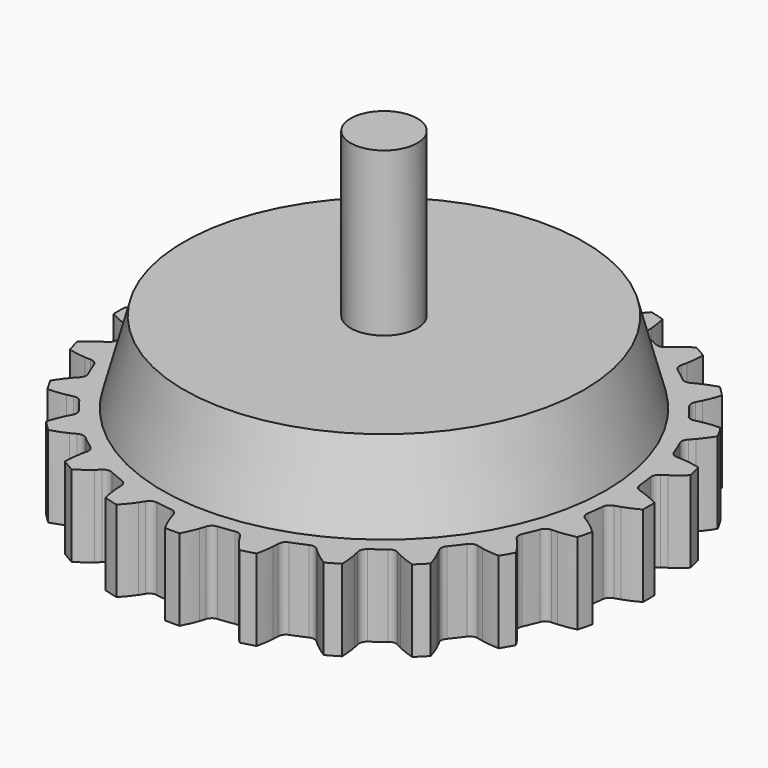
from build123d import *

# Parameters (mm, degrees)
PAD013_DEPTH    = 10
SKETCH016_R     = 27.25
POCKET006_DEPTH = 10
SKETCH018_R     = 4.1
PAD014_DEPTH    = 20


with BuildPart() as part:
    # InvoluteGear003 → Pad013 (new body)
    with BuildSketch(Plane.XY):
        with BuildLine():
            add(Edge.make_bspline(
                [(29.81913, -1.995336), (30.031282, -1.936255), (30.261506, -1.864534), (30.508596, -1.777631)],
                knots=[0, 0, 0, 0, 1, 1, 1, 1], degree=3))
            add(Edge.make_bspline(
                [(30.508596, -1.777631), (31.084344, -1.575098), (31.750217, -1.290846), (32.487919, -0.894202)],
                knots=[0, 0, 0, 0, 1, 1, 1, 1], degree=3))
            ThreePointArc((32.487919, -0.894202), (32.500111, 6.3e-05), (32.487693, 0.894325))
            add(Edge.make_bspline(
                [(32.487693, 0.894325), (31.750217, 1.290846), (31.084344, 1.575098), (30.508596, 1.777631)],
                knots=[0, 0, 0, 0, 1, 1, 1, 1], degree=3))
            add(Edge.make_bspline(
                [(30.508596, 1.777631), (30.261506, 1.864534), (30.031282, 1.936255), (29.819138, 1.995332)],
                knots=[0, 0, 0, 0, 1, 1, 1, 1], degree=3))
            ThreePointArc((29.819138, 1.995332), (29.334777, 2.299755), (29.113053, 2.827124))
            ThreePointArc((29.113053, 2.827124), (28.999762, 3.817891), (28.852764, 4.804221))
            ThreePointArc((28.852764, 4.804221), (28.930438, 5.371001), (29.319499, 5.790412))
            add(Edge.make_bspline(
                [(29.319499, 5.790412), (29.509131, 5.902389), (29.712947, 6.031252), (29.929125, 6.179146)],
                knots=[0, 0, 0, 0, 1, 1, 1, 1], degree=3))
            add(Edge.make_bspline(
                [(29.929125, 6.179146), (30.432836, 6.523792), (31.00245, 6.9707), (31.612356, 7.544759)],
                knots=[0, 0, 0, 0, 1, 1, 1, 1], degree=3))
            ThreePointArc((31.612356, 7.544759), (31.392681, 8.411709), (31.149233, 9.272285))
            add(Edge.make_bspline(
                [(31.149233, 9.272285), (30.334259, 9.464422), (29.617505, 9.566648), (29.008956, 9.613266)],
                knots=[0, 0, 0, 0, 1, 1, 1, 1], degree=3))
            add(Edge.make_bspline(
                [(29.008956, 9.613266), (28.747793, 9.633256), (28.506852, 9.642946), (28.286645, 9.645104)],
                knots=[0, 0, 0, 0, 1, 1, 1, 1], degree=3))
            ThreePointArc((28.286645, 9.645104), (27.739998, 9.813792), (27.389337, 10.265805))
            ThreePointArc((27.389337, 10.265805), (27.023476, 11.19349), (26.626206, 12.108166))
            ThreePointArc((26.626206, 12.108166), (26.55454, 12.675737), (26.821792, 13.181553))
            add(Edge.make_bspline(
                [(26.821792, 13.181553), (26.975981, 13.338795), (27.1395, 13.516019), (27.310035, 13.714824)],
                knots=[0, 0, 0, 0, 1, 1, 1, 1], degree=3))
            add(Edge.make_bspline(
                [(27.310035, 13.714824), (27.70738, 14.178097), (28.141917, 14.757203), (28.582464, 15.469557)],
                knots=[0, 0, 0, 0, 1, 1, 1, 1], degree=3))
            ThreePointArc((28.582464, 15.469557), (28.145891, 16.25011), (27.688005, 17.018355))
            add(Edge.make_bspline(
                [(27.688005, 17.018355), (26.851071, 16.993013), (26.132282, 16.906246), (25.532403, 16.793772)],
                knots=[0, 0, 0, 0, 1, 1, 1, 1], degree=3))
            add(Edge.make_bspline(
                [(25.532403, 16.793772), (25.274966, 16.745487), (25.039726, 16.692487), (24.826465, 16.637578)],
                knots=[0, 0, 0, 0, 1, 1, 1, 1], degree=3))
            ThreePointArc((24.826465, 16.637578), (24.254784, 16.659035), (23.799082, 17.004888))
            ThreePointArc((23.799082, 17.004888), (23.205585, 17.806272), (22.585116, 18.586959))
            ThreePointArc((22.585116, 18.586959), (22.368993, 19.116643), (22.496224, 19.674393))
            add(Edge.make_bspline(
                [(22.496224, 19.674393), (22.604462, 19.866185), (22.716541, 20.079691), (22.82981, 20.31586)],
                knots=[0, 0, 0, 0, 1, 1, 1, 1], degree=3))
            add(Edge.make_bspline(
                [(22.82981, 20.31586), (23.093712, 20.866188), (23.363559, 21.538028), (23.604724, 22.340131)],
                knots=[0, 0, 0, 0, 1, 1, 1, 1], degree=3))
            ThreePointArc((23.604724, 22.340131), (22.981005, 22.981094), (22.339885, 23.604651))
            add(Edge.make_bspline(
                [(22.339885, 23.604651), (21.538028, 23.363559), (20.866188, 23.093712), (20.31586, 22.82981)],
                knots=[0, 0, 0, 0, 1, 1, 1, 1], degree=3))
            add(Edge.make_bspline(
                [(20.31586, 22.82981), (20.079691, 22.716541), (19.866185, 22.604462), (19.674402, 22.496228)],
                knots=[0, 0, 0, 0, 1, 1, 1, 1], degree=3))
            ThreePointArc((19.674402, 22.496228), (19.116647, 22.368992), (18.586959, 22.585116))
            ThreePointArc((18.586959, 22.585116), (17.806272, 23.205585), (17.004888, 23.799082))
            ThreePointArc((17.004888, 23.799082), (16.659037, 24.25478), (16.637576, 24.826456))
            add(Edge.make_bspline(
                [(16.637576, 24.826456), (16.692487, 25.039726), (16.745487, 25.274966), (16.793772, 25.532403)],
                knots=[0, 0, 0, 0, 1, 1, 1, 1], degree=3))
            add(Edge.make_bspline(
                [(16.793772, 25.532403), (16.906246, 26.132282), (16.993013, 26.851071), (17.018361, 27.688262)],
                knots=[0, 0, 0, 0, 1, 1, 1, 1], degree=3))
            ThreePointArc((17.018361, 27.688262), (16.250001, 28.145953), (15.469338, 28.58233))
            add(Edge.make_bspline(
                [(15.469338, 28.58233), (14.757203, 28.141917), (14.178097, 27.70738), (13.714824, 27.310035)],
                knots=[0, 0, 0, 0, 1, 1, 1, 1], degree=3))
            add(Edge.make_bspline(
                [(13.714824, 27.310035), (13.516019, 27.1395), (13.338795, 26.975981), (13.18156, 26.821797)],
                knots=[0, 0, 0, 0, 1, 1, 1, 1], degree=3))
            ThreePointArc((13.18156, 26.821797), (12.675742, 26.55454), (12.108166, 26.626206))
            ThreePointArc((12.108166, 26.626206), (11.19349, 27.023476), (10.265805, 27.389337))
            ThreePointArc((10.265805, 27.389337), (9.813795, 27.739995), (9.645105, 28.286637))
            add(Edge.make_bspline(
                [(9.645105, 28.286637), (9.642946, 28.506852), (9.633256, 28.747793), (9.613266, 29.008956)],
                knots=[0, 0, 0, 0, 1, 1, 1, 1], degree=3))
            add(Edge.make_bspline(
                [(9.613266, 29.008956), (9.566648, 29.617505), (9.464422, 30.334259), (9.272225, 31.149483)],
                knots=[0, 0, 0, 0, 1, 1, 1, 1], degree=3))
            ThreePointArc((9.272225, 31.149483), (8.411587, 31.392713), (7.544582, 31.61217))
            add(Edge.make_bspline(
                [(7.544582, 31.61217), (6.9707, 31.00245), (6.523792, 30.432836), (6.179146, 29.929125)],
                knots=[0, 0, 0, 0, 1, 1, 1, 1], degree=3))
            add(Edge.make_bspline(
                [(6.179146, 29.929125), (6.031252, 29.712947), (5.902389, 29.509131), (5.790418, 29.319506)],
                knots=[0, 0, 0, 0, 1, 1, 1, 1], degree=3))
            ThreePointArc((5.790418, 29.319506), (5.371006, 28.930439), (4.804221, 28.852764))
            ThreePointArc((4.804221, 28.852764), (3.817891, 28.999762), (2.827124, 29.113053))
            ThreePointArc((2.827124, 29.113053), (2.299759, 29.334775), (1.995336, 29.81913))
            add(Edge.make_bspline(
                [(1.995336, 29.81913), (1.936255, 30.031282), (1.864534, 30.261506), (1.777631, 30.508596)],
                knots=[0, 0, 0, 0, 1, 1, 1, 1], degree=3))
            add(Edge.make_bspline(
                [(1.777631, 30.508596), (1.575098, 31.084344), (1.290846, 31.750217), (0.894202, 32.487919)],
                knots=[0, 0, 0, 0, 1, 1, 1, 1], degree=3))
            ThreePointArc((0.894202, 32.487919), (-6.3e-05, 32.500111), (-0.894325, 32.487693))
            add(Edge.make_bspline(
                [(-0.894325, 32.487693), (-1.290846, 31.750217), (-1.575098, 31.084344), (-1.777631, 30.508596)],
                knots=[0, 0, 0, 0, 1, 1, 1, 1], degree=3))
            add(Edge.make_bspline(
                [(-1.777631, 30.508596), (-1.864534, 30.261506), (-1.936255, 30.031282), (-1.995332, 29.819138)],
                knots=[0, 0, 0, 0, 1, 1, 1, 1], degree=3))
            ThreePointArc((-1.995332, 29.819138), (-2.299755, 29.334777), (-2.827124, 29.113053))
            ThreePointArc((-2.827124, 29.113053), (-3.817891, 28.999762), (-4.804221, 28.852764))
            ThreePointArc((-4.804221, 28.852764), (-5.371001, 28.930438), (-5.790412, 29.319499))
            add(Edge.make_bspline(
                [(-5.790412, 29.319499), (-5.902389, 29.509131), (-6.031252, 29.712947), (-6.179146, 29.929125)],
                knots=[0, 0, 0, 0, 1, 1, 1, 1], degree=3))
            add(Edge.make_bspline(
                [(-6.179146, 29.929125), (-6.523792, 30.432836), (-6.9707, 31.00245), (-7.544759, 31.612356)],
                knots=[0, 0, 0, 0, 1, 1, 1, 1], degree=3))
            ThreePointArc((-7.544759, 31.612356), (-8.411709, 31.392681), (-9.272285, 31.149233))
            add(Edge.make_bspline(
                [(-9.272285, 31.149233), (-9.464422, 30.334259), (-9.566648, 29.617505), (-9.613266, 29.008956)],
                knots=[0, 0, 0, 0, 1, 1, 1, 1], degree=3))
            add(Edge.make_bspline(
                [(-9.613266, 29.008956), (-9.633256, 28.747793), (-9.642946, 28.506852), (-9.645104, 28.286645)],
                knots=[0, 0, 0, 0, 1, 1, 1, 1], degree=3))
            ThreePointArc((-9.645104, 28.286645), (-9.813792, 27.739998), (-10.265805, 27.389337))
            ThreePointArc((-10.265805, 27.389337), (-11.19349, 27.023476), (-12.108166, 26.626206))
            ThreePointArc((-12.108166, 26.626206), (-12.675737, 26.55454), (-13.181553, 26.821792))
            add(Edge.make_bspline(
                [(-13.181553, 26.821792), (-13.338795, 26.975981), (-13.516019, 27.1395), (-13.714824, 27.310035)],
                knots=[0, 0, 0, 0, 1, 1, 1, 1], degree=3))
            add(Edge.make_bspline(
                [(-13.714824, 27.310035), (-14.178097, 27.70738), (-14.757203, 28.141917), (-15.469557, 28.582464)],
                knots=[0, 0, 0, 0, 1, 1, 1, 1], degree=3))
            ThreePointArc((-15.469557, 28.582464), (-16.25011, 28.145891), (-17.018355, 27.688005))
            add(Edge.make_bspline(
                [(-17.018355, 27.688005), (-16.993013, 26.851071), (-16.906246, 26.132282), (-16.793772, 25.532403)],
                knots=[0, 0, 0, 0, 1, 1, 1, 1], degree=3))
            add(Edge.make_bspline(
                [(-16.793772, 25.532403), (-16.745487, 25.274966), (-16.692487, 25.039726), (-16.637578, 24.826465)],
                knots=[0, 0, 0, 0, 1, 1, 1, 1], degree=3))
            ThreePointArc((-16.637578, 24.826465), (-16.659035, 24.254784), (-17.004888, 23.799082))
            ThreePointArc((-17.004888, 23.799082), (-17.806272, 23.205585), (-18.586959, 22.585116))
            ThreePointArc((-18.586959, 22.585116), (-19.116643, 22.368993), (-19.674393, 22.496224))
            add(Edge.make_bspline(
                [(-19.674393, 22.496224), (-19.866185, 22.604462), (-20.079691, 22.716541), (-20.31586, 22.82981)],
                knots=[0, 0, 0, 0, 1, 1, 1, 1], degree=3))
            add(Edge.make_bspline(
                [(-20.31586, 22.82981), (-20.866188, 23.093712), (-21.538028, 23.363559), (-22.340131, 23.604724)],
                knots=[0, 0, 0, 0, 1, 1, 1, 1], degree=3))
            ThreePointArc((-22.340131, 23.604724), (-22.981094, 22.981005), (-23.604651, 22.339885))
            add(Edge.make_bspline(
                [(-23.604651, 22.339885), (-23.363559, 21.538028), (-23.093712, 20.866188), (-22.82981, 20.31586)],
                knots=[0, 0, 0, 0, 1, 1, 1, 1], degree=3))
            add(Edge.make_bspline(
                [(-22.82981, 20.31586), (-22.716541, 20.079691), (-22.604462, 19.866185), (-22.496228, 19.674402)],
                knots=[0, 0, 0, 0, 1, 1, 1, 1], degree=3))
            ThreePointArc((-22.496228, 19.674402), (-22.368992, 19.116647), (-22.585116, 18.586959))
            ThreePointArc((-22.585116, 18.586959), (-23.205585, 17.806272), (-23.799082, 17.004888))
            ThreePointArc((-23.799082, 17.004888), (-24.25478, 16.659037), (-24.826456, 16.637576))
            add(Edge.make_bspline(
                [(-24.826456, 16.637576), (-25.039726, 16.692487), (-25.274966, 16.745487), (-25.532403, 16.793772)],
                knots=[0, 0, 0, 0, 1, 1, 1, 1], degree=3))
            add(Edge.make_bspline(
                [(-25.532403, 16.793772), (-26.132282, 16.906246), (-26.851071, 16.993013), (-27.688262, 17.018361)],
                knots=[0, 0, 0, 0, 1, 1, 1, 1], degree=3))
            ThreePointArc((-27.688262, 17.018361), (-28.145953, 16.250001), (-28.58233, 15.469338))
            add(Edge.make_bspline(
                [(-28.58233, 15.469338), (-28.141917, 14.757203), (-27.70738, 14.178097), (-27.310035, 13.714824)],
                knots=[0, 0, 0, 0, 1, 1, 1, 1], degree=3))
            add(Edge.make_bspline(
                [(-27.310035, 13.714824), (-27.1395, 13.516019), (-26.975981, 13.338795), (-26.821797, 13.18156)],
                knots=[0, 0, 0, 0, 1, 1, 1, 1], degree=3))
            ThreePointArc((-26.821797, 13.18156), (-26.55454, 12.675742), (-26.626206, 12.108166))
            ThreePointArc((-26.626206, 12.108166), (-27.023476, 11.19349), (-27.389337, 10.265805))
            ThreePointArc((-27.389337, 10.265805), (-27.739995, 9.813795), (-28.286637, 9.645105))
            add(Edge.make_bspline(
                [(-28.286637, 9.645105), (-28.506852, 9.642946), (-28.747793, 9.633256), (-29.008956, 9.613266)],
                knots=[0, 0, 0, 0, 1, 1, 1, 1], degree=3))
            add(Edge.make_bspline(
                [(-29.008956, 9.613266), (-29.617505, 9.566648), (-30.334259, 9.464422), (-31.149483, 9.272225)],
                knots=[0, 0, 0, 0, 1, 1, 1, 1], degree=3))
            ThreePointArc((-31.149483, 9.272225), (-31.392713, 8.411587), (-31.61217, 7.544582))
            add(Edge.make_bspline(
                [(-31.61217, 7.544582), (-31.00245, 6.9707), (-30.432836, 6.523792), (-29.929125, 6.179146)],
                knots=[0, 0, 0, 0, 1, 1, 1, 1], degree=3))
            add(Edge.make_bspline(
                [(-29.929125, 6.179146), (-29.712947, 6.031252), (-29.509131, 5.902389), (-29.319506, 5.790418)],
                knots=[0, 0, 0, 0, 1, 1, 1, 1], degree=3))
            ThreePointArc((-29.319506, 5.790418), (-28.930439, 5.371006), (-28.852764, 4.804221))
            ThreePointArc((-28.852764, 4.804221), (-28.999762, 3.817891), (-29.113053, 2.827124))
            ThreePointArc((-29.113053, 2.827124), (-29.334775, 2.299759), (-29.81913, 1.995336))
            add(Edge.make_bspline(
                [(-29.81913, 1.995336), (-30.031282, 1.936255), (-30.261506, 1.864534), (-30.508596, 1.777631)],
                knots=[0, 0, 0, 0, 1, 1, 1, 1], degree=3))
            add(Edge.make_bspline(
                [(-30.508596, 1.777631), (-31.084344, 1.575098), (-31.750217, 1.290846), (-32.487919, 0.894202)],
                knots=[0, 0, 0, 0, 1, 1, 1, 1], degree=3))
            ThreePointArc((-32.487919, 0.894202), (-32.500111, -6.3e-05), (-32.487693, -0.894325))
            add(Edge.make_bspline(
                [(-32.487693, -0.894325), (-31.750217, -1.290846), (-31.084344, -1.575098), (-30.508596, -1.777631)],
                knots=[0, 0, 0, 0, 1, 1, 1, 1], degree=3))
            add(Edge.make_bspline(
                [(-30.508596, -1.777631), (-30.261506, -1.864534), (-30.031282, -1.936255), (-29.819138, -1.995332)],
                knots=[0, 0, 0, 0, 1, 1, 1, 1], degree=3))
            ThreePointArc((-29.819138, -1.995332), (-29.334777, -2.299755), (-29.113053, -2.827124))
            ThreePointArc((-29.113053, -2.827124), (-28.999762, -3.817891), (-28.852764, -4.804221))
            ThreePointArc((-28.852764, -4.804221), (-28.930438, -5.371001), (-29.319499, -5.790412))
            add(Edge.make_bspline(
                [(-29.319499, -5.790412), (-29.509131, -5.902389), (-29.712947, -6.031252), (-29.929125, -6.179146)],
                knots=[0, 0, 0, 0, 1, 1, 1, 1], degree=3))
            add(Edge.make_bspline(
                [(-29.929125, -6.179146), (-30.432836, -6.523792), (-31.00245, -6.9707), (-31.612356, -7.544759)],
                knots=[0, 0, 0, 0, 1, 1, 1, 1], degree=3))
            ThreePointArc((-31.612356, -7.544759), (-31.392681, -8.411709), (-31.149233, -9.272285))
            add(Edge.make_bspline(
                [(-31.149233, -9.272285), (-30.334259, -9.464422), (-29.617505, -9.566648), (-29.008956, -9.613266)],
                knots=[0, 0, 0, 0, 1, 1, 1, 1], degree=3))
            add(Edge.make_bspline(
                [(-29.008956, -9.613266), (-28.747793, -9.633256), (-28.506852, -9.642946), (-28.286645, -9.645104)],
                knots=[0, 0, 0, 0, 1, 1, 1, 1], degree=3))
            ThreePointArc((-28.286645, -9.645104), (-27.739998, -9.813792), (-27.389337, -10.265805))
            ThreePointArc((-27.389337, -10.265805), (-27.023476, -11.19349), (-26.626206, -12.108166))
            ThreePointArc((-26.626206, -12.108166), (-26.55454, -12.675737), (-26.821792, -13.181553))
            add(Edge.make_bspline(
                [(-26.821792, -13.181553), (-26.975981, -13.338795), (-27.1395, -13.516019), (-27.310035, -13.714824)],
                knots=[0, 0, 0, 0, 1, 1, 1, 1], degree=3))
            add(Edge.make_bspline(
                [(-27.310035, -13.714824), (-27.70738, -14.178097), (-28.141917, -14.757203), (-28.582464, -15.469557)],
                knots=[0, 0, 0, 0, 1, 1, 1, 1], degree=3))
            ThreePointArc((-28.582464, -15.469557), (-28.145891, -16.25011), (-27.688005, -17.018355))
            add(Edge.make_bspline(
                [(-27.688005, -17.018355), (-26.851071, -16.993013), (-26.132282, -16.906246), (-25.532403, -16.793772)],
                knots=[0, 0, 0, 0, 1, 1, 1, 1], degree=3))
            add(Edge.make_bspline(
                [(-25.532403, -16.793772), (-25.274966, -16.745487), (-25.039726, -16.692487), (-24.826465, -16.637578)],
                knots=[0, 0, 0, 0, 1, 1, 1, 1], degree=3))
            ThreePointArc((-24.826465, -16.637578), (-24.254784, -16.659035), (-23.799082, -17.004888))
            ThreePointArc((-23.799082, -17.004888), (-23.205585, -17.806272), (-22.585116, -18.586959))
            ThreePointArc((-22.585116, -18.586959), (-22.368993, -19.116643), (-22.496224, -19.674393))
            add(Edge.make_bspline(
                [(-22.496224, -19.674393), (-22.604462, -19.866185), (-22.716541, -20.079691), (-22.82981, -20.31586)],
                knots=[0, 0, 0, 0, 1, 1, 1, 1], degree=3))
            add(Edge.make_bspline(
                [(-22.82981, -20.31586), (-23.093712, -20.866188), (-23.363559, -21.538028), (-23.604724, -22.340131)],
                knots=[0, 0, 0, 0, 1, 1, 1, 1], degree=3))
            ThreePointArc((-23.604724, -22.340131), (-22.981005, -22.981094), (-22.339885, -23.604651))
            add(Edge.make_bspline(
                [(-22.339885, -23.604651), (-21.538028, -23.363559), (-20.866188, -23.093712), (-20.31586, -22.82981)],
                knots=[0, 0, 0, 0, 1, 1, 1, 1], degree=3))
            add(Edge.make_bspline(
                [(-20.31586, -22.82981), (-20.079691, -22.716541), (-19.866185, -22.604462), (-19.674402, -22.496228)],
                knots=[0, 0, 0, 0, 1, 1, 1, 1], degree=3))
            ThreePointArc((-19.674402, -22.496228), (-19.116647, -22.368992), (-18.586959, -22.585116))
            ThreePointArc((-18.586959, -22.585116), (-17.806272, -23.205585), (-17.004888, -23.799082))
            ThreePointArc((-17.004888, -23.799082), (-16.659037, -24.25478), (-16.637576, -24.826456))
            add(Edge.make_bspline(
                [(-16.637576, -24.826456), (-16.692487, -25.039726), (-16.745487, -25.274966), (-16.793772, -25.532403)],
                knots=[0, 0, 0, 0, 1, 1, 1, 1], degree=3))
            add(Edge.make_bspline(
                [(-16.793772, -25.532403), (-16.906246, -26.132282), (-16.993013, -26.851071), (-17.018361, -27.688262)],
                knots=[0, 0, 0, 0, 1, 1, 1, 1], degree=3))
            ThreePointArc((-17.018361, -27.688262), (-16.250001, -28.145953), (-15.469338, -28.58233))
            add(Edge.make_bspline(
                [(-15.469338, -28.58233), (-14.757203, -28.141917), (-14.178097, -27.70738), (-13.714824, -27.310035)],
                knots=[0, 0, 0, 0, 1, 1, 1, 1], degree=3))
            add(Edge.make_bspline(
                [(-13.714824, -27.310035), (-13.516019, -27.1395), (-13.338795, -26.975981), (-13.18156, -26.821797)],
                knots=[0, 0, 0, 0, 1, 1, 1, 1], degree=3))
            ThreePointArc((-13.18156, -26.821797), (-12.675742, -26.55454), (-12.108166, -26.626206))
            ThreePointArc((-12.108166, -26.626206), (-11.19349, -27.023476), (-10.265805, -27.389337))
            ThreePointArc((-10.265805, -27.389337), (-9.813795, -27.739995), (-9.645105, -28.286637))
            add(Edge.make_bspline(
                [(-9.645105, -28.286637), (-9.642946, -28.506852), (-9.633256, -28.747793), (-9.613266, -29.008956)],
                knots=[0, 0, 0, 0, 1, 1, 1, 1], degree=3))
            add(Edge.make_bspline(
                [(-9.613266, -29.008956), (-9.566648, -29.617505), (-9.464422, -30.334259), (-9.272225, -31.149483)],
                knots=[0, 0, 0, 0, 1, 1, 1, 1], degree=3))
            ThreePointArc((-9.272225, -31.149483), (-8.411587, -31.392713), (-7.544582, -31.61217))
            add(Edge.make_bspline(
                [(-7.544582, -31.61217), (-6.9707, -31.00245), (-6.523792, -30.432836), (-6.179146, -29.929125)],
                knots=[0, 0, 0, 0, 1, 1, 1, 1], degree=3))
            add(Edge.make_bspline(
                [(-6.179146, -29.929125), (-6.031252, -29.712947), (-5.902389, -29.509131), (-5.790418, -29.319506)],
                knots=[0, 0, 0, 0, 1, 1, 1, 1], degree=3))
            ThreePointArc((-5.790418, -29.319506), (-5.371006, -28.930439), (-4.804221, -28.852764))
            ThreePointArc((-4.804221, -28.852764), (-3.817891, -28.999762), (-2.827124, -29.113053))
            ThreePointArc((-2.827124, -29.113053), (-2.299759, -29.334775), (-1.995336, -29.81913))
            add(Edge.make_bspline(
                [(-1.995336, -29.81913), (-1.936255, -30.031282), (-1.864534, -30.261506), (-1.777631, -30.508596)],
                knots=[0, 0, 0, 0, 1, 1, 1, 1], degree=3))
            add(Edge.make_bspline(
                [(-1.777631, -30.508596), (-1.575098, -31.084344), (-1.290846, -31.750217), (-0.894202, -32.487919)],
                knots=[0, 0, 0, 0, 1, 1, 1, 1], degree=3))
            ThreePointArc((-0.894202, -32.487919), (6.3e-05, -32.500111), (0.894325, -32.487693))
            add(Edge.make_bspline(
                [(0.894325, -32.487693), (1.290846, -31.750217), (1.575098, -31.084344), (1.777631, -30.508596)],
                knots=[0, 0, 0, 0, 1, 1, 1, 1], degree=3))
            add(Edge.make_bspline(
                [(1.777631, -30.508596), (1.864534, -30.261506), (1.936255, -30.031282), (1.995332, -29.819138)],
                knots=[0, 0, 0, 0, 1, 1, 1, 1], degree=3))
            ThreePointArc((1.995332, -29.819138), (2.299755, -29.334777), (2.827124, -29.113053))
            ThreePointArc((2.827124, -29.113053), (3.817891, -28.999762), (4.804221, -28.852764))
            ThreePointArc((4.804221, -28.852764), (5.371001, -28.930438), (5.790412, -29.319499))
            add(Edge.make_bspline(
                [(5.790412, -29.319499), (5.902389, -29.509131), (6.031252, -29.712947), (6.179146, -29.929125)],
                knots=[0, 0, 0, 0, 1, 1, 1, 1], degree=3))
            add(Edge.make_bspline(
                [(6.179146, -29.929125), (6.523792, -30.432836), (6.9707, -31.00245), (7.544759, -31.612356)],
                knots=[0, 0, 0, 0, 1, 1, 1, 1], degree=3))
            ThreePointArc((7.544759, -31.612356), (8.411709, -31.392681), (9.272285, -31.149233))
            add(Edge.make_bspline(
                [(9.272285, -31.149233), (9.464422, -30.334259), (9.566648, -29.617505), (9.613266, -29.008956)],
                knots=[0, 0, 0, 0, 1, 1, 1, 1], degree=3))
            add(Edge.make_bspline(
                [(9.613266, -29.008956), (9.633256, -28.747793), (9.642946, -28.506852), (9.645104, -28.286645)],
                knots=[0, 0, 0, 0, 1, 1, 1, 1], degree=3))
            ThreePointArc((9.645104, -28.286645), (9.813792, -27.739998), (10.265805, -27.389337))
            ThreePointArc((10.265805, -27.389337), (11.19349, -27.023476), (12.108166, -26.626206))
            ThreePointArc((12.108166, -26.626206), (12.675737, -26.55454), (13.181553, -26.821792))
            add(Edge.make_bspline(
                [(13.181553, -26.821792), (13.338795, -26.975981), (13.516019, -27.1395), (13.714824, -27.310035)],
                knots=[0, 0, 0, 0, 1, 1, 1, 1], degree=3))
            add(Edge.make_bspline(
                [(13.714824, -27.310035), (14.178097, -27.70738), (14.757203, -28.141917), (15.469557, -28.582464)],
                knots=[0, 0, 0, 0, 1, 1, 1, 1], degree=3))
            ThreePointArc((15.469557, -28.582464), (16.25011, -28.145891), (17.018355, -27.688005))
            add(Edge.make_bspline(
                [(17.018355, -27.688005), (16.993013, -26.851071), (16.906246, -26.132282), (16.793772, -25.532403)],
                knots=[0, 0, 0, 0, 1, 1, 1, 1], degree=3))
            add(Edge.make_bspline(
                [(16.793772, -25.532403), (16.745487, -25.274966), (16.692487, -25.039726), (16.637578, -24.826465)],
                knots=[0, 0, 0, 0, 1, 1, 1, 1], degree=3))
            ThreePointArc((16.637578, -24.826465), (16.659035, -24.254784), (17.004888, -23.799082))
            ThreePointArc((17.004888, -23.799082), (17.806272, -23.205585), (18.586959, -22.585116))
            ThreePointArc((18.586959, -22.585116), (19.116643, -22.368993), (19.674393, -22.496224))
            add(Edge.make_bspline(
                [(19.674393, -22.496224), (19.866185, -22.604462), (20.079691, -22.716541), (20.31586, -22.82981)],
                knots=[0, 0, 0, 0, 1, 1, 1, 1], degree=3))
            add(Edge.make_bspline(
                [(20.31586, -22.82981), (20.866188, -23.093712), (21.538028, -23.363559), (22.340131, -23.604724)],
                knots=[0, 0, 0, 0, 1, 1, 1, 1], degree=3))
            ThreePointArc((22.340131, -23.604724), (22.981094, -22.981005), (23.604651, -22.339885))
            add(Edge.make_bspline(
                [(23.604651, -22.339885), (23.363559, -21.538028), (23.093712, -20.866188), (22.82981, -20.31586)],
                knots=[0, 0, 0, 0, 1, 1, 1, 1], degree=3))
            add(Edge.make_bspline(
                [(22.82981, -20.31586), (22.716541, -20.079691), (22.604462, -19.866185), (22.496228, -19.674402)],
                knots=[0, 0, 0, 0, 1, 1, 1, 1], degree=3))
            ThreePointArc((22.496228, -19.674402), (22.368992, -19.116647), (22.585116, -18.586959))
            ThreePointArc((22.585116, -18.586959), (23.205585, -17.806272), (23.799082, -17.004888))
            ThreePointArc((23.799082, -17.004888), (24.25478, -16.659037), (24.826456, -16.637576))
            add(Edge.make_bspline(
                [(24.826456, -16.637576), (25.039726, -16.692487), (25.274966, -16.745487), (25.532403, -16.793772)],
                knots=[0, 0, 0, 0, 1, 1, 1, 1], degree=3))
            add(Edge.make_bspline(
                [(25.532403, -16.793772), (26.132282, -16.906246), (26.851071, -16.993013), (27.688262, -17.018361)],
                knots=[0, 0, 0, 0, 1, 1, 1, 1], degree=3))
            ThreePointArc((27.688262, -17.018361), (28.145953, -16.250001), (28.58233, -15.469338))
            add(Edge.make_bspline(
                [(28.58233, -15.469338), (28.141917, -14.757203), (27.70738, -14.178097), (27.310035, -13.714824)],
                knots=[0, 0, 0, 0, 1, 1, 1, 1], degree=3))
            add(Edge.make_bspline(
                [(27.310035, -13.714824), (27.1395, -13.516019), (26.975981, -13.338795), (26.821797, -13.18156)],
                knots=[0, 0, 0, 0, 1, 1, 1, 1], degree=3))
            ThreePointArc((26.821797, -13.18156), (26.55454, -12.675742), (26.626206, -12.108166))
            ThreePointArc((26.626206, -12.108166), (27.023476, -11.19349), (27.389337, -10.265805))
            ThreePointArc((27.389337, -10.265805), (27.739995, -9.813795), (28.286637, -9.645105))
            add(Edge.make_bspline(
                [(28.286637, -9.645105), (28.506852, -9.642946), (28.747793, -9.633256), (29.008956, -9.613266)],
                knots=[0, 0, 0, 0, 1, 1, 1, 1], degree=3))
            add(Edge.make_bspline(
                [(29.008956, -9.613266), (29.617505, -9.566648), (30.334259, -9.464422), (31.149483, -9.272225)],
                knots=[0, 0, 0, 0, 1, 1, 1, 1], degree=3))
            ThreePointArc((31.149483, -9.272225), (31.392713, -8.411587), (31.61217, -7.544582))
            add(Edge.make_bspline(
                [(31.61217, -7.544582), (31.00245, -6.9707), (30.432836, -6.523792), (29.929125, -6.179146)],
                knots=[0, 0, 0, 0, 1, 1, 1, 1], degree=3))
            add(Edge.make_bspline(
                [(29.929125, -6.179146), (29.712947, -6.031252), (29.509131, -5.902389), (29.319506, -5.790418)],
                knots=[0, 0, 0, 0, 1, 1, 1, 1], degree=3))
            ThreePointArc((29.319506, -5.790418), (28.930439, -5.371006), (28.852764, -4.804221))
            ThreePointArc((28.852764, -4.804221), (28.999762, -3.817891), (29.113053, -2.827124))
            ThreePointArc((29.113053, -2.827124), (29.334775, -2.299759), (29.81913, -1.995336))
        make_face()
    extrude(amount=PAD013_DEPTH)

    # Sketch016 → Pocket006 (cut)
    with BuildSketch(Plane.XY):
        Circle(SKETCH016_R)
    extrude(amount=POCKET006_DEPTH, mode=Mode.SUBTRACT)

    # Sketch017 → Revolution (revolve)
    with BuildSketch(Plane.XZ):
        Polygon((22.25, 5), (27.25, 5), (27.25, 10), (24.570508, 20), (0, 20), (0, 15), (22.25, 15), align=None)
    revolve(axis=Axis((0, 0, 0), (0, 0, 1)))

    # Sketch018 (on Face200 of Revolution) → Pad014 (join)
    with BuildSketch(Plane.XY.offset(20)):
        Circle(SKETCH018_R)
    extrude(amount=PAD014_DEPTH)


solid = part.part
